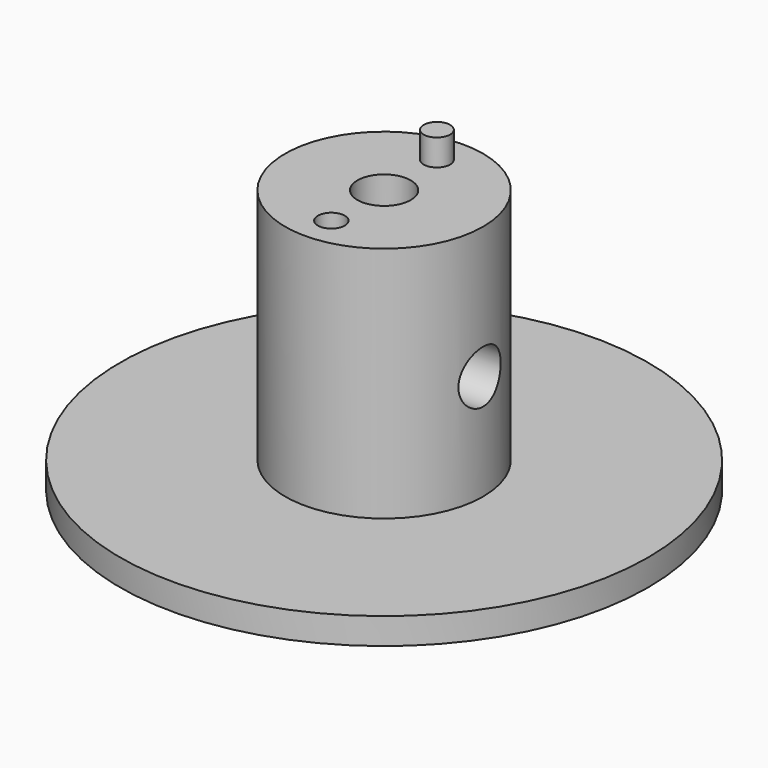
from build123d import *

# Parameters (mm, degrees)
F1_R      = 645.16
F3_DEPTH  = 64.516
F2_R      = 241.935
F4_DEPTH  = 645.16
F0_R      = 65.151
F5_DEPTH  = 645.161
F6_R      = 64.516377
F7_DEPTH  = 127000
F8_R      = 32.258
F10_DEPTH = 64.516
F9_R      = 32.893
F11_DEPTH = 65.786


with BuildPart() as f3:
    # F1 (on Top) → F3 (new body)
    with BuildSketch(Plane.XY):
        Circle(F1_R)
    extrude(amount=F3_DEPTH)

    # F2 (on Top) → F4 (join)
    with BuildSketch(Plane.XY):
        Circle(F2_R)
    extrude(amount=F4_DEPTH)

    # F0 (on Top) → F5 (cut, through all)
    with BuildSketch(Plane.XY):
        Circle(F0_R)
    extrude(amount=F5_DEPTH, mode=Mode.SUBTRACT)

    # F6 (on Right) → F7 (cut, symmetric)
    with BuildSketch(Plane.YZ):
        with Locations((0, 322.58)):
            Circle(F6_R)
    extrude(amount=F7_DEPTH, both=True, mode=Mode.SUBTRACT)

    # F8 (on face) → F10 (join)
    with BuildSketch(Plane.XY.offset(645.16)):
        with Locations((0, 161.29)):
            Circle(F8_R)
    extrude(amount=F10_DEPTH)

    # F9 (on face) → F11 (cut)
    with BuildSketch(Plane.XY.offset(645.16)):
        with Locations((0, -161.29)):
            Circle(F9_R)
    extrude(amount=-F11_DEPTH, mode=Mode.SUBTRACT)


with BuildPart() as f12_1:
    # F12: copy of F3
    add(f3.part.moved(Location((1879.6, 0, 0))))


solid = f3.part
